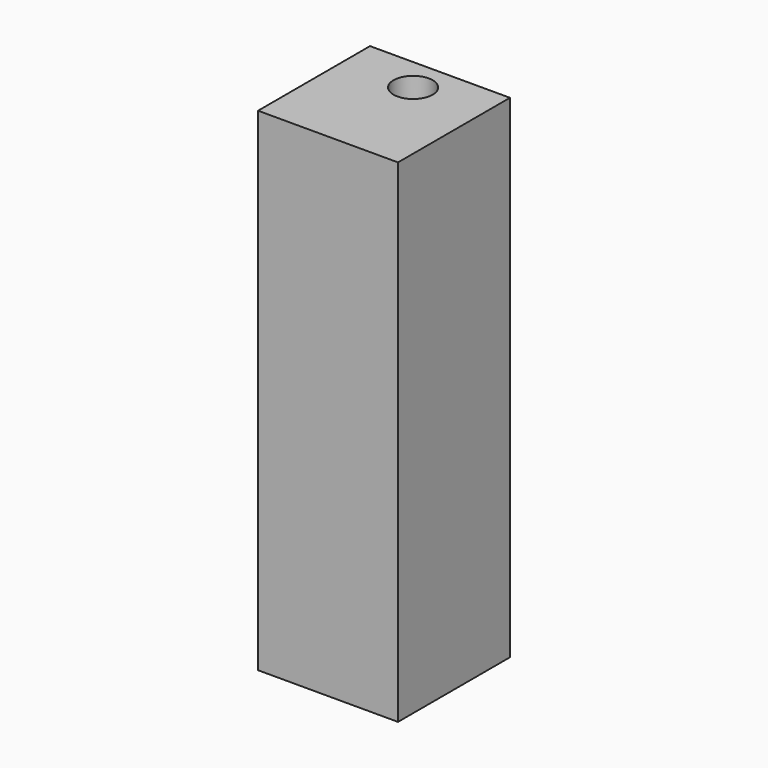
from build123d import *

# Parameters (mm, degrees)
F0_W     = 50
F0_H     = 176
F1_DEPTH = 50
F2_R     = 7
F3_DEPTH = 176.001
F4_START = -15
F4_DEPTH = 130


with BuildPart() as f1:
    # F0 (on Front) → F1 (new body)
    with BuildSketch(Plane.XZ):
        with Locations((25, 88)):
            Rectangle(F0_W, F0_H)
    extrude(amount=-F1_DEPTH)

    # F2 (on face) → F3 (cut, through all)
    with BuildSketch(Plane.XY.offset(176)):
        with Locations((25, 38)):
            Circle(F2_R)
    extrude(amount=-F3_DEPTH, mode=Mode.SUBTRACT)

    # F2 (on face) → F4 (cut)
    with BuildSketch(Plane.XY.offset(176).offset(F4_START)):
        with BuildLine():
            ThreePointArc((9, 50), (18.6754446797, 19.026334039), (45, 38))
            ThreePointArc((45, 38), (43.973665961, 44.3245553203), (41, 50))
            Line((41, 50), (9, 50))
        make_face()
        with Locations((25, 38)):
            Circle(F2_R, mode=Mode.SUBTRACT)
    extrude(amount=-F4_DEPTH, mode=Mode.SUBTRACT)


solid = f1.part
